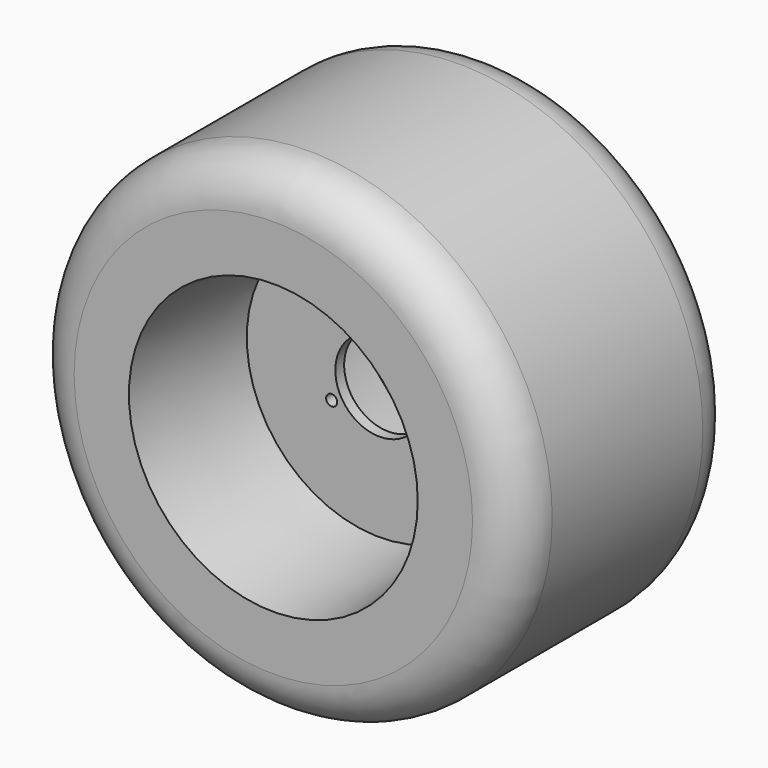
from build123d import *

# Parameters (mm, degrees)
F2_R     = 25.4
F3_R     = 25.4
F3_R_2   = 3.175
F4_DEPTH = 82.551


with BuildPart() as f1:
    # F0 (on Top) → F1 (revolve)
    with BuildSketch(Plane.XY):
        Polygon((0, 3.175), (0, 0), (0, -3.175), (76.2, -3.175), (82.866636, -79.375), (139.7, -79.375), (139.7, 0), (139.7, 79.375), (82.866636, 79.375), (76.2, 3.175), align=None)
    revolve(axis=Axis((0, 1.5875, 0), (0, 1, 0)))

    # F2
    f2_edges = [f1.edges().sort_by_distance(p)[0] for p in [
        (-139.7, -79.375, 0),
        (-139.7, 79.375, 0),
    ]]
    fillet(f2_edges, radius=F2_R)

    # F3 (on face) → F4 (cut, through all)
    with BuildSketch(Plane.XZ.offset(3.175)):
        Circle(F3_R)
        with Locations((0, 31.75)):
            Circle(F3_R_2)
        with Locations((-27.496307, -15.875)):
            Circle(F3_R_2)
        with Locations((27.496307, -15.875)):
            Circle(F3_R_2)
    extrude(amount=-F4_DEPTH, mode=Mode.SUBTRACT)


solid = f1.part
